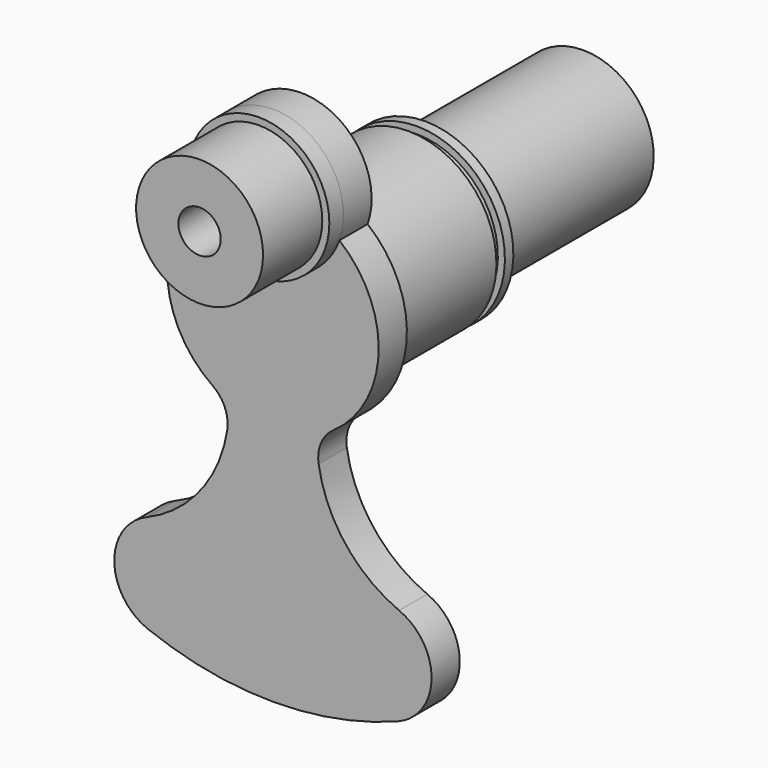
from build123d import *

# Parameters (mm, degrees)
F3_DEPTH  = 5
F4_R      = 10
F5_DEPTH  = 2.5
F6_R      = 9
F7_DEPTH  = 10.5
F8_R      = 3
F9_DEPTH  = 12
F10_R     = 3
F11_DEPTH = 18


with BuildPart() as f1:
    # F0 (on Right) → F1 (revolve)
    with BuildSketch(Plane.YZ):
        Polygon((19, 12.5), (0, 12.5), (0, 0), (50, 0), (50, 10), (22, 10), (22, 12.5), (20.5, 12.5), (20.5, 11.5), (19, 11.5), align=None)
    revolve(axis=Axis((0, 25, 0), (0, 1, 0)))

    # F2 (on Front) → F3 (join)
    with BuildSketch(Plane.XZ):
        with BuildLine():
            ThreePointArc((9.4280904158, 11.6666666667), (0, 25), (-9.4280904158, 11.6666666667))
            ThreePointArc((-9.4280904158, 11.6666666667), (-14.9902642074, -0.5403508046), (-8.5636209064, -12.3152099849))
            ThreePointArc((-8.5636209064, -12.3152099849), (-6.8207164782, -14.4547006883), (-6.478218783, -17.1929175614))
            ThreePointArc((-6.478218783, -17.1929175614), (-10.2915186174, -25.9720061348), (-17.9009433962, -31.7780638628))
            ThreePointArc((-17.9009433962, -31.7780638628), (-22.4992996252, -38.7968093702), (-17.7108433735, -45.6872632908))
            ThreePointArc((-17.7108433735, -45.6872632908), (-9.0089982449, -48.1646961023), (0, -49))
            ThreePointArc((0, -49), (9.0089982449, -48.1646961023), (17.7108433735, -45.6872632908))
            ThreePointArc((17.7108433735, -45.6872632908), (22.4992996252, -38.7968093702), (17.9009433962, -31.7780638628))
            ThreePointArc((17.9009433962, -31.7780638628), (10.2915186174, -25.9720061348), (6.478218783, -17.1929175614))
            ThreePointArc((6.478218783, -17.1929175614), (6.8207164782, -14.4547006883), (8.5636209064, -12.3152099849))
            ThreePointArc((8.5636209064, -12.3152099849), (14.9902642074, -0.5403508046), (9.4280904158, 11.6666666667))
        make_face()
    extrude(amount=F3_DEPTH)

    # F4 (on face) → F5 (join)
    with BuildSketch(Plane.XZ.offset(5)):
        with Locations((0, 15)):
            Circle(F4_R)
    extrude(amount=F5_DEPTH)

    # F6 (on face) → F7 (join)
    with BuildSketch(Plane.XZ.offset(7.5)):
        with Locations((0, 15)):
            Circle(F6_R)
    extrude(amount=F7_DEPTH)

    # F8 (on face) → F9 (cut)
    with BuildSketch(Plane.XZ.offset(18)):
        with Locations((0, 15)):
            Circle(F8_R)
    extrude(amount=-F9_DEPTH, mode=Mode.SUBTRACT)

    # F10 (on face) → F11 (cut)
    with BuildSketch(Plane(origin=(0, 50, 0), x_dir=(-1, 0, 0), z_dir=(0, 1, 0))):
        Circle(F10_R)
    extrude(amount=-F11_DEPTH, mode=Mode.SUBTRACT)


solid = f1.part
